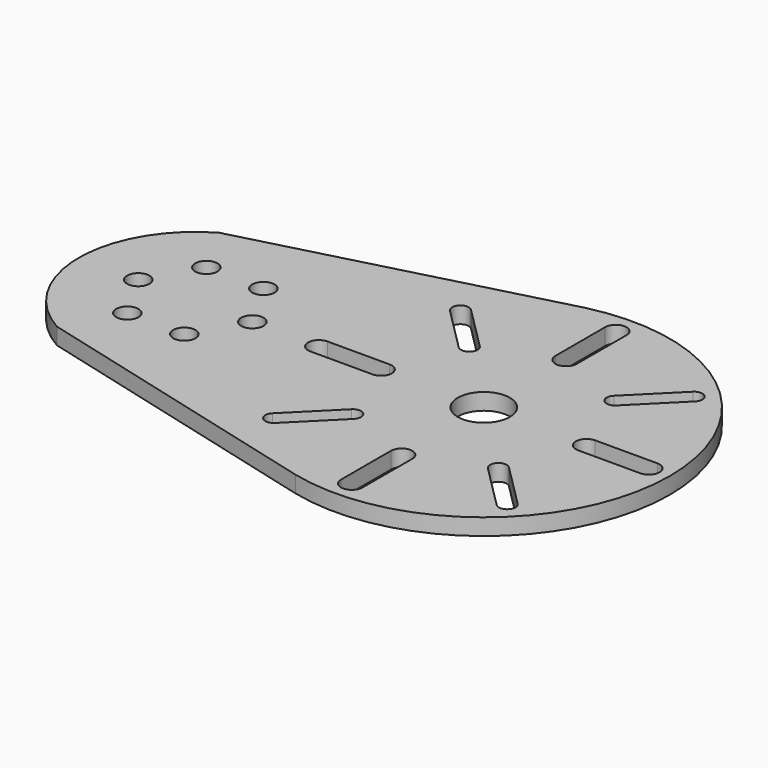
from build123d import *

# Parameters (mm, degrees)
F0_R     = 3.429
F0_R_2   = 8.001
F1_DEPTH = 5.08


with BuildPart() as f1:
    # F0 (on Top) → F1 (new body)
    with BuildSketch(Plane.XY):
        with BuildLine():
            ThreePointArc((-47.046664, 31.200842), (-65.278, 0), (-47.046664, -31.200842))
            Line((-47.046664, -31.200842), (45.80861, -55.563252))
            ThreePointArc((45.80861, -55.563252), (116.332, 0), (45.80861, 55.563252))
            Line((45.80861, 55.563252), (-47.046664, 31.200842))
        make_face()
        with Locations((-38.227, -15.177961)):
            Circle(F0_R, mode=Mode.SUBTRACT)
        with Locations((-20.701, -15.177961)):
            Circle(F0_R, mode=Mode.SUBTRACT)
        with BuildLine():
            ThreePointArc((35.007266, -20.582632), (38.599368, -20.582632), (38.599368, -24.174734))
            Line((38.599368, -24.174734), (25.101956, -37.672146))
            ThreePointArc((25.101956, -37.672146), (21.509854, -37.672146), (21.509854, -34.080044))
            Line((21.509854, -34.080044), (35.007266, -20.582632))
        make_face(mode=Mode.SUBTRACT)
        with BuildLine():
            ThreePointArc((55.88, -31.577829), (59.182, -28.275829), (62.484, -31.577829))
            Line((62.484, -31.577829), (62.484, -50.692571))
            ThreePointArc((62.484, -50.692571), (59.182, -53.994571), (55.88, -50.692571))
            Line((55.88, -50.692571), (55.88, -31.577829))
        make_face(mode=Mode.SUBTRACT)
        with BuildLine():
            ThreePointArc((79.764632, -24.174734), (79.764632, -20.582632), (83.356734, -20.582632))
            Line((83.356734, -20.582632), (96.854146, -34.080044))
            ThreePointArc((96.854146, -34.080044), (96.854146, -37.672146), (93.262044, -37.672146))
            Line((93.262044, -37.672146), (79.764632, -24.174734))
        make_face(mode=Mode.SUBTRACT)
        with Locations((-46.99, 0)):
            Circle(F0_R, mode=Mode.SUBTRACT)
        with Locations((-38.227, 15.177961)):
            Circle(F0_R, mode=Mode.SUBTRACT)
        with Locations((-20.701, 15.177961)):
            Circle(F0_R, mode=Mode.SUBTRACT)
        with Locations((-11.938, 0)):
            Circle(F0_R, mode=Mode.SUBTRACT)
        with BuildLine():
            ThreePointArc((27.604171, 3.302), (30.906171, 0), (27.604171, -3.302))
            Line((27.604171, -3.302), (8.489429, -3.302))
            ThreePointArc((8.489429, -3.302), (5.187429, 0), (8.489429, 3.302))
            Line((8.489429, 3.302), (27.604171, 3.302))
        make_face(mode=Mode.SUBTRACT)
        with Locations((59.182, 0)):
            Circle(F0_R_2, mode=Mode.SUBTRACT)
        with BuildLine():
            ThreePointArc((90.759829, -3.302), (87.457829, 0), (90.759829, 3.302))
            Line((90.759829, 3.302), (109.874571, 3.302))
            ThreePointArc((109.874571, 3.302), (113.176571, 0), (109.874571, -3.302))
            Line((109.874571, -3.302), (90.759829, -3.302))
        make_face(mode=Mode.SUBTRACT)
        with BuildLine():
            ThreePointArc((38.599368, 24.174734), (38.599368, 20.582632), (35.007266, 20.582632))
            Line((35.007266, 20.582632), (21.509854, 34.080044))
            ThreePointArc((21.509854, 34.080044), (21.509854, 37.672146), (25.101956, 37.672146))
            Line((25.101956, 37.672146), (38.599368, 24.174734))
        make_face(mode=Mode.SUBTRACT)
        with BuildLine():
            ThreePointArc((62.484, 31.577829), (59.182, 28.275829), (55.88, 31.577829))
            Line((55.88, 31.577829), (55.88, 50.692571))
            ThreePointArc((55.88, 50.692571), (59.182, 53.994571), (62.484, 50.692571))
            Line((62.484, 50.692571), (62.484, 31.577829))
        make_face(mode=Mode.SUBTRACT)
        with BuildLine():
            Line((96.854146, 34.080044), (83.356734, 20.582632))
            ThreePointArc((83.356734, 20.582632), (79.764632, 20.582632), (79.764632, 24.174734))
            Line((79.764632, 24.174734), (93.262044, 37.672146))
            ThreePointArc((93.262044, 37.672146), (96.854146, 37.672146), (96.854146, 34.080044))
        make_face(mode=Mode.SUBTRACT)
    extrude(amount=-F1_DEPTH)


solid = f1.part
